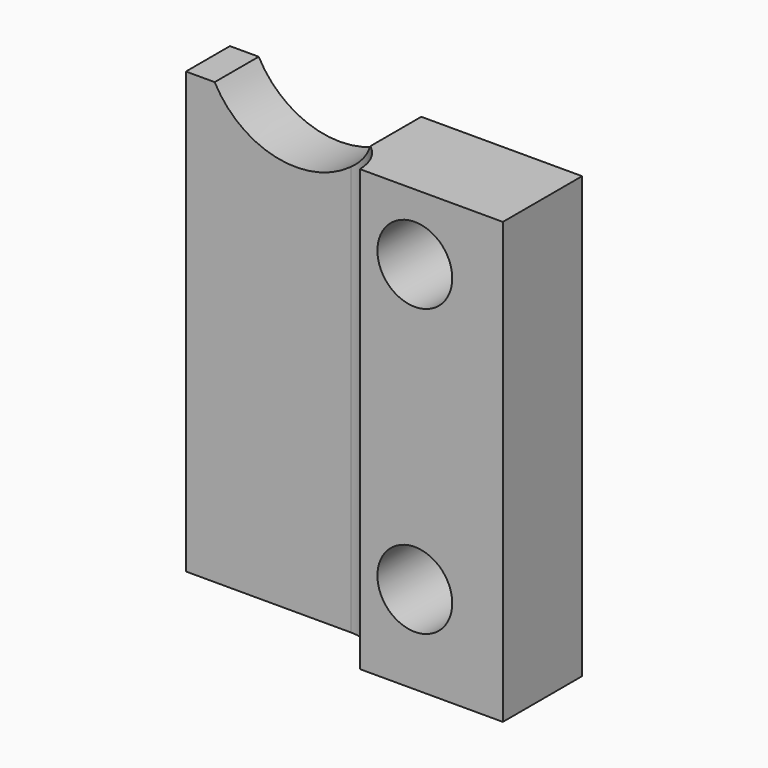
from build123d import *

# Parameters (mm, degrees)
CYLINDER235_R          = 4.2
CYLINDER235_DEPTH      = 18
CYLINDER235_ROLL_ANGLE = 90
CYLINDER237_R          = 1.7
CYLINDER237_DEPTH      = 20
CYLINDER237_ROLL_ANGLE = 90
CYLINDER236_R          = 1.7
CYLINDER236_DEPTH      = 20
CYLINDER236_ROLL_ANGLE = 90
BOX001027045178_W      = 10
BOX001027045178_H      = 4
BOX001027045178_DEPTH  = 60
CYLINDER234_R          = 2
CYLINDER234_DEPTH      = 74
BOX001027045177_W      = 16
BOX001027045177_H      = 4.5
BOX001027045177_DEPTH  = 20


with BuildPart() as rocker_cut004:
    # Cylinder235 → Cylinder235 (new body)
    with BuildSketch(Plane.XY):
        Circle(CYLINDER235_R)
    extrude(amount=CYLINDER235_DEPTH)


with BuildPart() as rocker_cut004_1:
    # Cylinder235 roll: moved
    add(rocker_cut004.part.rotate(Axis((0, 0, 0), (1, 0, 0)), CYLINDER235_ROLL_ANGLE))


with BuildPart() as rocker_cut004_2:
    # Cylinder235 placement: moved
    add(rocker_cut004_1.part.moved(Location((0, 9, -8))))


with BuildPart() as cylinder264:
    # Cylinder237 → Cylinder237 (new body)
    with BuildSketch(Plane.XY):
        Circle(CYLINDER237_R)
    extrude(amount=CYLINDER237_DEPTH)


with BuildPart() as cylinder264_1:
    # Cylinder237 roll: moved
    add(cylinder264.part.rotate(Axis((0, 0, 0), (1, 0, 0)), CYLINDER237_ROLL_ANGLE))


with BuildPart() as cylinder264_2:
    # Cylinder237 placement: moved
    add(cylinder264_1.part.moved(Location((7, 11, -13))))


with BuildPart() as top_slot_m3_clearance001:
    # Cylinder236 → Cylinder236 (new body)
    with BuildSketch(Plane.XY):
        Circle(CYLINDER236_R)
    extrude(amount=CYLINDER236_DEPTH)


with BuildPart() as top_slot_m3_clearance001_1:
    # Cylinder236 roll: moved
    add(top_slot_m3_clearance001.part.rotate(Axis((0, 0, 0), (1, 0, 0)), CYLINDER236_ROLL_ANGLE))


with BuildPart() as top_slot_m3_clearance001_2:
    # Cylinder236 placement: moved
    add(top_slot_m3_clearance001_1.part.moved(Location((7, 11, -26))))

    # Fusion112126: union Cylinder264
    add(cylinder264_2.part)


with BuildPart() as cube226:
    # Box001027045178 → Box001027045178 (new body)
    with BuildSketch(Plane(origin=(-10, -2, -57), x_dir=(1, 0, 0), z_dir=(0, 0, 1))):
        with Locations((5, 2)):
            Rectangle(BOX001027045178_W, BOX001027045178_H)
    extrude(amount=BOX001027045178_DEPTH)


with BuildPart() as plate_cuts:
    # Cylinder234 → Cylinder234 (new body)
    with BuildSketch(Plane.XY.offset(-62)):
        Circle(CYLINDER234_R)
    extrude(amount=CYLINDER234_DEPTH)

    # Fusion112125: union Cube226
    add(cube226.part)


with BuildPart() as plate_cuts_1:
    # Fusion112125 placement: moved
    add(plate_cuts.part.moved(Location((2.5, 0, 0))))

    # Fusion112127: union rocker-cut004, top-slot-m3-clearance001
    add(rocker_cut004_2.part)
    add(top_slot_m3_clearance001_2.part)


with BuildPart() as top_slot_plate:
    # Box001027045177 → Box001027045177 (new body)
    with BuildSketch(Plane(origin=(-5, 0, -30), x_dir=(1, 0, 0), z_dir=(0, 0, 1))):
        with Locations((8, 2.25)):
            Rectangle(BOX001027045177_W, BOX001027045177_H)
    extrude(amount=BOX001027045177_DEPTH)

    # Cut217: cut plate-cuts
    add(plate_cuts_1.part, mode=Mode.SUBTRACT)


solid = top_slot_plate.part
